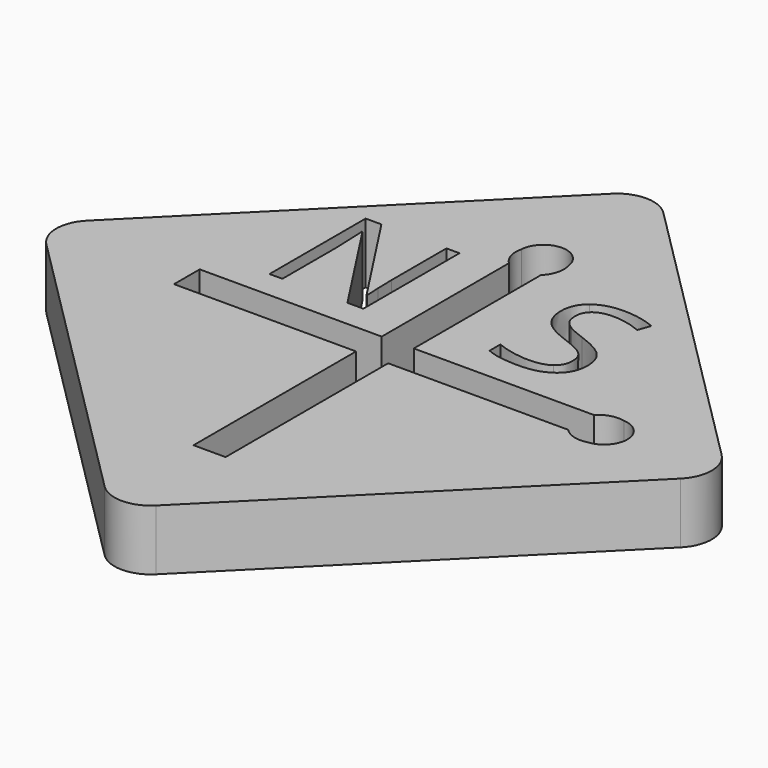
from build123d import *

# Parameters (mm, degrees)
F1_DEPTH = 2.5
F2_R     = 0.85
F3_DEPTH = 12.5


with BuildPart() as f1:
    # F0 (on Top) → F1 (new body)
    with BuildSketch(Plane.XY):
        with BuildLine():
            Line((13.081475452, -13.081475452), (1.0606601718, -1.0606601718))
            ThreePointArc((1.0606601718, -1.0606601718), (0, -0.6213203436), (-1.0606601718, -1.0606601718))
            Line((-1.0606601718, -1.0606601718), (-13.081475452, -13.081475452))
            ThreePointArc((-13.081475452, -13.081475452), (-13.5208152802, -14.1421356237), (-13.081475452, -15.2027957955))
            Line((-13.081475452, -15.2027957955), (-1.0606601718, -27.2236110757))
            ThreePointArc((-1.0606601718, -27.2236110757), (0, -27.6629509039), (1.0606601718, -27.2236110757))
            Line((1.0606601718, -27.2236110757), (13.081475452, -15.2027957955))
            ThreePointArc((13.081475452, -15.2027957955), (13.5208152802, -14.1421356237), (13.081475452, -13.081475452))
        make_face()
        with BuildLine():
            Line((-2.3015444974, -7.3716045666), (-2.3015444974, -12.3292868583))
            Line((-2.3015444974, -12.3292868583), (-2.9590965807, -12.3292868583))
            Line((-2.9590965807, -12.3292868583), (-5.6685149835, -8.1691306083))
            Line((-5.6685149835, -8.1691306083), (-5.6956417196, -8.1691306083))
            add(Edge.make_bspline(
                [(-5.6956417196, -8.1691306083), (-5.6413882474, -8.9015524833), (-5.6413882474, -9.5113615111)],
                knots=[0, 0, 0, 1, 1, 1], degree=2))
            Line((-5.6413882474, -9.5113615111), (-5.6413882474, -12.3292868583))
            Line((-5.6413882474, -12.3292868583), (-6.1741573446, -12.3292868583))
            Line((-6.1741573446, -12.3292868583), (-6.1741573446, -7.3716045666))
            Line((-6.1741573446, -7.3716045666), (-5.523115678, -7.3716045666))
            Line((-5.523115678, -7.3716045666), (-2.8202076919, -11.515484775))
            Line((-2.8202076919, -11.515484775), (-2.7930809557, -11.515484775))
            add(Edge.make_bspline(
                [(-2.7930809557, -11.515484775), (-2.7995913724, -11.4243389416), (-2.8234629002, -10.9273771361)],
                knots=[0, 0, 0, 1, 1, 1], degree=2))
            add(Edge.make_bspline(
                [(-2.8234629002, -10.9273771361), (-2.847334428, -10.4304153305), (-2.8408240113, -10.21665665)],
                knots=[0, 0, 0, 1, 1, 1], degree=2))
            Line((-2.8408240113, -10.21665665), (-2.8408240113, -7.3716045666))
            Line((-2.8408240113, -7.3716045666), (-2.3015444974, -7.3716045666))
        make_face(mode=Mode.SUBTRACT)
        with BuildLine():
            Line((-8.1334756687, -14.8039748892), (-8.1334756687, -13.4802963582))
            Line((-8.1334756687, -13.4802963582), (-0.6236797201, -13.4802963582))
            Line((-0.6236797201, -13.4802963582), (-0.6236797201, -6.9198086858))
            ThreePointArc((-0.6236797201, -6.9198086858), (-0.9032194318, -6.4583786209), (-0.9135835525, -5.9189782686))
            ThreePointArc((-0.9135835525, -5.9189782686), (0.0168397474, -5.0141534426), (0.9868078824, -5.876451129))
            ThreePointArc((0.9868078824, -5.876451129), (0.9900106564, -6.4384308628), (0.6999988109, -6.9198086858))
            Line((0.6999988109, -6.9198086858), (0.6999988109, -13.4802963582))
            Line((0.6999988109, -13.4802963582), (8.1334756687, -13.4802963582))
            ThreePointArc((8.1334756687, -13.4802963582), (8.5949057336, -13.2007566465), (9.134306086, -13.1903925258))
            ThreePointArc((9.134306086, -13.1903925258), (10.0391309119, -14.1208158258), (9.1768332255, -15.0907839607))
            ThreePointArc((9.1768332255, -15.0907839607), (8.6148534917, -15.0939867347), (8.1334756687, -14.8039748892))
            Line((8.1334756687, -14.8039748892), (0.6999988109, -14.8039748892))
            Line((0.6999988109, -14.8039748892), (0.6999988109, -23.1867600232))
            Line((0.6999988109, -23.1867600232), (-0.6236797201, -23.1867600232))
            Line((-0.6236797201, -23.1867600232), (-0.6236797201, -14.8039748892))
            Line((-0.6236797201, -14.8039748892), (-8.1334756687, -14.8039748892))
        make_face(mode=Mode.SUBTRACT)
        with BuildLine():
            add(Edge.make_bspline(
                [(5.5299358711, -10.0878473268), (5.8229046211, -10.4068577434), (5.8229046211, -10.9146702434)],
                knots=[0, 0, 0, 1, 1, 1], degree=2))
            add(Edge.make_bspline(
                [(5.8229046211, -10.9146702434), (5.8229046211, -11.5689671184), (5.3481867392, -11.9357205907)],
                knots=[0, 0, 0, 1, 1, 1], degree=2))
            add(Edge.make_bspline(
                [(5.3481867392, -11.9357205907), (4.8734688573, -12.3024740629), (4.0596667739, -12.3024740629)],
                knots=[0, 0, 0, 1, 1, 1], degree=2))
            add(Edge.make_bspline(
                [(4.0596667739, -12.3024740629), (3.178590385, -12.3024740629), (2.7033299684, -12.0746094796)],
                knots=[0, 0, 0, 1, 1, 1], degree=2))
            Line((2.7033299684, -12.0746094796), (2.7033299684, -11.519053924))
            add(Edge.make_bspline(
                [(2.7033299684, -11.519053924), (3.0093195517, -11.6470921184), (3.3684775378, -11.7219619101)],
                knots=[0, 0, 0, 1, 1, 1], degree=2))
            add(Edge.make_bspline(
                [(3.3684775378, -11.7219619101), (3.7276355239, -11.7968317018), (4.0802830934, -11.7968317018)],
                knots=[0, 0, 0, 1, 1, 1], degree=2))
            add(Edge.make_bspline(
                [(4.0802830934, -11.7968317018), (4.6564549684, -11.7968317018), (4.9483386489, -11.5781902087)],
                knots=[0, 0, 0, 1, 1, 1], degree=2))
            add(Edge.make_bspline(
                [(4.9483386489, -11.5781902087), (5.2402223295, -11.3595487157), (5.2402223295, -10.9689237157)],
                knots=[0, 0, 0, 1, 1, 1], degree=2))
            add(Edge.make_bspline(
                [(5.2402223295, -10.9689237157), (5.2402223295, -10.7117622573), (5.1365981975, -10.5473742365)],
                knots=[0, 0, 0, 1, 1, 1], degree=2))
            add(Edge.make_bspline(
                [(5.1365981975, -10.5473742365), (5.0329740656, -10.3829862157), (4.7904610448, -10.2435547921)],
                knots=[0, 0, 0, 1, 1, 1], degree=2))
            add(Edge.make_bspline(
                [(4.7904610448, -10.2435547921), (4.5479480239, -10.1041233684), (4.0531563573, -9.9283421184)],
                knots=[0, 0, 0, 1, 1, 1], degree=2))
            add(Edge.make_bspline(
                [(4.0531563573, -9.9283421184), (3.3619671211, -9.6809462851), (3.0652006281, -9.3418620837)],
                knots=[0, 0, 0, 1, 1, 1], degree=2))
            add(Edge.make_bspline(
                [(3.0652006281, -9.3418620837), (2.768434135, -9.0027778823), (2.768434135, -8.4569879518)],
                knots=[0, 0, 0, 1, 1, 1], degree=2))
            add(Edge.make_bspline(
                [(2.768434135, -8.4569879518), (2.768434135, -7.8840712851), (3.1986641698, -7.5449870837)],
                knots=[0, 0, 0, 1, 1, 1], degree=2))
            add(Edge.make_bspline(
                [(3.1986641698, -7.5449870837), (3.6288942045, -7.2059028823), (4.3385296211, -7.2059028823)],
                knots=[0, 0, 0, 1, 1, 1], degree=2))
            add(Edge.make_bspline(
                [(4.3385296211, -7.2059028823), (5.0774619128, -7.2059028823), (5.698121635, -7.4771702434)],
                knots=[0, 0, 0, 1, 1, 1], degree=2))
            Line((5.698121635, -7.4771702434), (5.5180001073, -7.9784723268))
            add(Edge.make_bspline(
                [(5.5180001073, -7.9784723268), (4.9038508017, -7.7213108684), (4.3244237184, -7.7213108684)],
                knots=[0, 0, 0, 1, 1, 1], degree=2))
            add(Edge.make_bspline(
                [(4.3244237184, -7.7213108684), (3.8665244128, -7.7213108684), (3.6088204198, -7.9177084379)],
                knots=[0, 0, 0, 1, 1, 1], degree=2))
            add(Edge.make_bspline(
                [(3.6088204198, -7.9177084379), (3.3511164267, -8.1141060073), (3.3511164267, -8.4634983684)],
                knots=[0, 0, 0, 1, 1, 1], degree=2))
            add(Edge.make_bspline(
                [(3.3511164267, -8.4634983684), (3.3511164267, -8.7206598268), (3.4460600031, -8.8855903823)],
                knots=[0, 0, 0, 1, 1, 1], degree=2))
            add(Edge.make_bspline(
                [(3.4460600031, -8.8855903823), (3.5410035795, -9.0505209379), (3.7666980239, -9.1877822226)],
                knots=[0, 0, 0, 1, 1, 1], degree=2))
            add(Edge.make_bspline(
                [(3.7666980239, -9.1877822226), (3.9923924684, -9.3250435073), (4.4568021906, -9.4910591323)],
                knots=[0, 0, 0, 1, 1, 1], degree=2))
            add(Edge.make_bspline(
                [(4.4568021906, -9.4910591323), (5.2369671211, -9.7688369101), (5.5299358711, -10.0878473268)],
                knots=[0, 0, 0, 1, 1, 1], degree=2))
        make_face(mode=Mode.SUBTRACT)
    extrude(amount=F1_DEPTH)

    # F2 (on Right) → F3 (cut, symmetric)
    with BuildSketch(Plane.YZ):
        with Locations((-2.4908210296, 1.292226194)):
            Circle(F2_R)
    extrude(amount=F3_DEPTH, both=True, mode=Mode.SUBTRACT)


solid = f1.part
